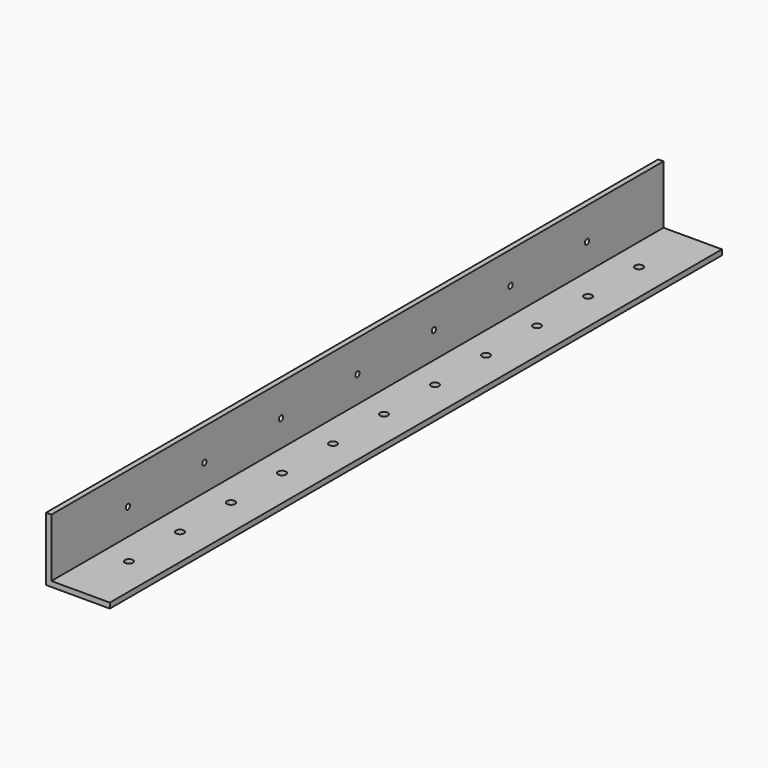
from build123d import *

# Parameters (mm, degrees)
F1_DEPTH = 1828.8
F4_D     = 19.05
F5_D     = 12.7


with BuildPart() as f1:
    # F0 (on Front) → F1 (new body)
    with BuildSketch(Plane.XZ):
        Polygon((6.35, 152.4), (-6.35, 152.4), (-6.35, 0), (0, 0), (6.35, 0), (146.05, 0), (146.05, 12.7), (6.35, 12.7), align=None)
    extrude(amount=F1_DEPTH)

    # F4 (through all)
    with Locations(Plane(origin=(0, 0, 0), x_dir=(1, 0, 0), z_dir=(0, 0, -1))):
        with Locations((69.85, 1066.8), (69.85, 1219.2), (69.85, 1371.6), (69.85, 1524), (69.85, 1676.4), (69.85, 914.4), (69.85, 762), (69.85, 609.6), (69.85, 457.2), (69.85, 304.8), (69.85, 152.4)):
            Hole(F4_D / 2)

    # F5 (through all)
    with Locations(Plane(origin=(-6.35, 0, 0), x_dir=(0, -1, 0), z_dir=(-1, 0, 0))):
        with Locations((1600.2, 76.2), (1371.6, 76.2), (1143, 76.2), (914.4, 76.2), (685.8, 76.2), (457.2, 76.2), (228.6, 76.2)):
            Hole(F5_D / 2)


solid = f1.part
